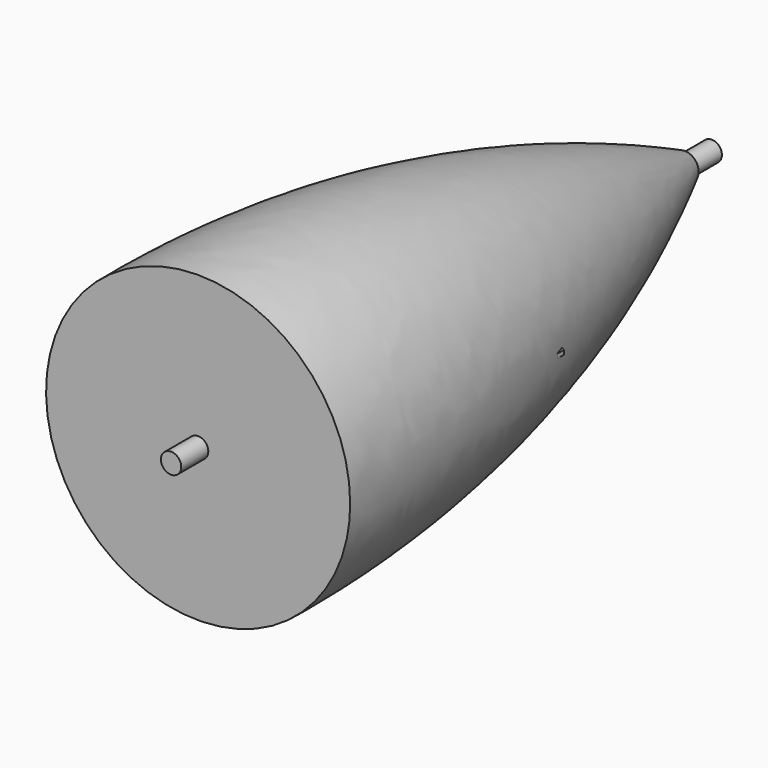
from build123d import *

# Parameters (mm, degrees)
SKETCH_R          = 4.120219
SKETCH001_R       = 35.8086
SKETCH002_R       = 45
SKETCH003_R       = 4.120219
SKETCH004_R       = 3.8086
SKETCH005_R       = 45
PAD_DEPTH         = 10
SKETCH006_R       = 3.009992
PAD002_DEPTH      = 100
FUSION_ROLL_ANGLE = 90
PAD003_DEPTH      = 12
SKETCH007_R       = 0.5
POCKET_DEPTH      = 12.001


with BuildPart() as obj1:
    # Sketch → Loft section 0
    with BuildSketch(Plane.XZ.offset(-90)):
        Circle(SKETCH_R)
    # Sketch001 → Loft section 1
    with BuildSketch(Plane.XZ):
        Circle(SKETCH001_R)
    # Sketch002 → Loft section 2
    with BuildSketch(Plane.XZ.offset(90)):
        Circle(SKETCH002_R)
    loft()


with BuildPart() as obj2:
    # Sketch003 → Loft001 section 0
    with BuildSketch(Plane.XZ.offset(-90)):
        Circle(SKETCH003_R)
    # Sketch004 → Loft001 section 1
    with BuildSketch(Plane.XZ):
        Circle(SKETCH004_R)
    # Sketch005 → Loft001 section 2
    with BuildSketch(Plane.XZ.offset(90)):
        Circle(SKETCH005_R)
    loft()


with BuildPart() as pad:
    # InvoluteGear → Pad (new body)
    with BuildSketch(Plane.XY):
        with BuildLine():
            Line((13.925855, -1.716263), (15.913635, -1.959941))
            add(Edge.make_bspline(
                [(15.913635, -1.959941), (15.994501, -1.964874), (16.238179, -1.969799), (16.647193, -1.893238)],
                knots=[0, 0, 0, 0, 1, 1, 1, 1], degree=3))
            add(Edge.make_bspline(
                [(16.647193, -1.893238), (17.136473, -1.800024), (17.842605, -1.590654), (18.717945, -1.127762)],
                knots=[0, 0, 0, 0, 1, 1, 1, 1], degree=3))
            ThreePointArc((18.717945, -1.127762), (18.751891, 0), (18.717945, 1.127762))
            add(Edge.make_bspline(
                [(18.717945, 1.127762), (17.842605, 1.590654), (17.136473, 1.800024), (16.647193, 1.893238)],
                knots=[0, 0, 0, 0, 1, 1, 1, 1], degree=3))
            add(Edge.make_bspline(
                [(16.647193, 1.893238), (16.238179, 1.969799), (15.994501, 1.964874), (15.913635, 1.959941)],
                knots=[0, 0, 0, 0, 1, 1, 1, 1], degree=3))
            Line((15.913635, 1.959941), (13.925855, 1.716263))
            ThreePointArc((13.925855, 1.716263), (13.260086, 1.888302), (12.890802, 2.468367))
            ThreePointArc((12.890802, 2.468367), (12.743611, 3.141018), (12.561346, 3.805024))
            ThreePointArc((12.561346, 3.805024), (12.618761, 4.490261), (13.128319, 4.951993))
            Line((13.128319, 4.951993), (15.001654, 5.659993))
            add(Edge.make_bspline(
                [(15.001654, 5.659993), (15.075549, 5.693206), (15.293605, 5.802087), (15.620188, 6.059958)],
                knots=[0, 0, 0, 0, 1, 1, 1, 1], degree=3))
            add(Edge.make_bspline(
                [(15.620188, 6.059958), (16.010106, 6.369874), (16.538056, 6.883418), (17.098014, 7.700079)],
                knots=[0, 0, 0, 0, 1, 1, 1, 1], degree=3))
            ThreePointArc((17.098014, 7.700079), (16.603975, 8.714438), (16.04982, 9.697246))
            add(Edge.make_bspline(
                [(16.04982, 9.697246), (15.059628, 9.700326), (14.33708, 9.557558), (13.860526, 9.412715)],
                knots=[0, 0, 0, 0, 1, 1, 1, 1], degree=3))
            add(Edge.make_bspline(
                [(13.860526, 9.412715), (13.462782, 9.290429), (13.249304, 9.172824), (13.179994, 9.130877)],
                knots=[0, 0, 0, 0, 1, 1, 1, 1], degree=3))
            Line((13.179994, 9.130877), (11.533145, 7.991343))
            ThreePointArc((11.533145, 7.991343), (10.863686, 7.834278), (10.267131, 8.176285))
            ThreePointArc((10.267131, 8.176285), (9.824204, 8.703485), (9.354237, 9.20673))
            ThreePointArc((9.354237, 9.20673), (9.08663, 9.840159), (9.323244, 10.485806))
            Line((9.323244, 10.485806), (10.652975, 11.983291))
            add(Edge.make_bspline(
                [(10.652975, 11.983291), (10.702971, 12.04704), (10.84545, 12.244786), (11.014787, 12.624889)],
                knots=[0, 0, 0, 0, 1, 1, 1, 1], degree=3))
            add(Edge.make_bspline(
                [(11.014787, 12.624889), (11.216017, 13.08051), (11.444838, 13.780581), (11.561134, 14.763925)],
                knots=[0, 0, 0, 0, 1, 1, 1, 1], degree=3))
            ThreePointArc((11.561134, 14.763925), (10.652288, 15.432504), (9.704875, 16.045208))
            add(Edge.make_bspline(
                [(9.704875, 16.045208), (8.826672, 15.587771), (8.253235, 15.125571), (7.898579, 14.775852)],
                knots=[0, 0, 0, 0, 1, 1, 1, 1], degree=3))
            add(Edge.make_bspline(
                [(7.898579, 14.775852), (7.603224, 14.482733), (7.468852, 14.279391), (7.426975, 14.210038)],
                knots=[0, 0, 0, 0, 1, 1, 1, 1], degree=3))
            Line((7.426975, 14.210038), (6.498331, 12.435702))
            ThreePointArc((6.498331, 12.435702), (5.978545, 11.985515), (5.291384, 12.011115))
            ThreePointArc((5.291384, 12.011115), (4.654189, 12.272088), (4.004184, 12.499285))
            ThreePointArc((4.004184, 12.499285), (3.472861, 12.935796), (3.382325, 13.617447))
            Line((3.382325, 13.617447), (3.863828, 15.561362))
            add(Edge.make_bspline(
                [(3.863828, 15.561362), (3.878472, 15.641043), (3.912734, 15.882352), (3.886031, 16.297611)],
                knots=[0, 0, 0, 0, 1, 1, 1, 1], degree=3))
            add(Edge.make_bspline(
                [(3.886031, 16.297611), (3.852474, 16.79456), (3.729745, 17.52078), (3.375738, 18.445533)],
                knots=[0, 0, 0, 0, 1, 1, 1, 1], degree=3))
            ThreePointArc((3.375738, 18.445533), (2.260291, 18.615169), (1.13666, 18.717406))
            add(Edge.make_bspline(
                [(1.13666, 18.717406), (0.571632, 17.904244), (0.278674, 17.228498), (0.127164, 16.75402)],
                knots=[0, 0, 0, 0, 1, 1, 1, 1], degree=3))
            add(Edge.make_bspline(
                [(0.127164, 16.75402), (0.001859, 16.357218), (-0.022624, 16.114722), (-0.027475, 16.033851)],
                knots=[0, 0, 0, 0, 1, 1, 1, 1], degree=3))
            Line((-0.027475, 16.033851), (-0.025173, 14.031193))
            ThreePointArc((-0.025173, 14.031193), (-0.276208, 13.391015), (-0.896555, 13.094343))
            ThreePointArc((-0.896555, 13.094343), (-1.582044, 13.029304), (-2.263178, 12.928405))
            ThreePointArc((-2.263178, 12.928405), (-2.936498, 13.067997), (-3.333443, 13.629496))
            Line((-3.333443, 13.629496), (-3.810476, 15.574512))
            add(Edge.make_bspline(
                [(-3.810476, 15.574512), (-3.834539, 15.651872), (-3.916343, 15.881462), (-4.132968, 16.236747)],
                knots=[0, 0, 0, 0, 1, 1, 1, 1], degree=3))
            add(Edge.make_bspline(
                [(-4.132968, 16.236747), (-4.393625, 16.661178), (-4.839787, 17.247179), (-5.582999, 17.901492)],
                knots=[0, 0, 0, 0, 1, 1, 1, 1], degree=3))
            ThreePointArc((-5.582999, 17.901492), (-6.649512, 17.533323), (-7.69195, 17.101672))
            add(Edge.make_bspline(
                [(-7.69195, 17.101672), (-7.814362, 16.119072), (-7.759729, 15.384583), (-7.673384, 14.894044)],
                knots=[0, 0, 0, 0, 1, 1, 1, 1], degree=3))
            add(Edge.make_bspline(
                [(-7.673384, 14.894044), (-7.599932, 14.484461), (-7.508917, 14.258364), (-7.47563, 14.184502)],
                knots=[0, 0, 0, 0, 1, 1, 1, 1], degree=3))
            Line((-7.47563, 14.184502), (-6.54291, 12.412306))
            ThreePointArc((-6.54291, 12.412306), (-6.467685, 11.728795), (-6.879105, 11.177815))
            ThreePointArc((-6.879105, 11.177815), (-7.45585, 10.801663), (-8.012074, 10.395783))
            ThreePointArc((-8.012074, 10.395783), (-8.673141, 10.206478), (-9.28556, 10.519191))
            Line((-9.28556, 10.519191), (-10.611845, 12.019729))
            add(Edge.make_bspline(
                [(-10.611845, 12.019729), (-10.669103, 12.077045), (-10.848233, 12.242321), (-11.205154, 12.456239)],
                knots=[0, 0, 0, 0, 1, 1, 1, 1], degree=3))
            add(Edge.make_bspline(
                [(-11.205154, 12.456239), (-11.633197, 12.710921), (-12.300583, 13.022457), (-13.262738, 13.256435)],
                knots=[0, 0, 0, 0, 1, 1, 1, 1], degree=3))
            ThreePointArc((-13.262738, 13.256435), (-14.035992, 12.434804), (-14.758427, 11.568151))
            add(Edge.make_bspline(
                [(-14.758427, 11.568151), (-14.41018, 10.641214), (-14.020471, 10.016246), (-13.716051, 9.622022)],
                knots=[0, 0, 0, 0, 1, 1, 1, 1], degree=3))
            add(Edge.make_bspline(
                [(-13.716051, 9.622022), (-13.46067, 9.293489), (-13.275008, 9.135587), (-13.211208, 9.085655)],
                knots=[0, 0, 0, 0, 1, 1, 1, 1], degree=3))
            Line((-13.211208, 9.085655), (-11.561745, 7.949909))
            ThreePointArc((-11.561745, 7.949909), (-11.177493, 7.379649), (-11.285734, 6.700584))
            ThreePointArc((-11.285734, 6.700584), (-11.62161, 6.099492), (-11.9255, 5.481612))
            ThreePointArc((-11.9255, 5.481612), (-12.422872, 5.006778), (-13.110467, 4.999066))
            Line((-13.110467, 4.999066), (-14.982169, 5.711371))
            add(Edge.make_bspline(
                [(-14.982169, 5.711371), (-15.059504, 5.735513), (-15.294923, 5.798611), (-15.710374, 5.822157)],
                knots=[0, 0, 0, 0, 1, 1, 1, 1], degree=3))
            add(Edge.make_bspline(
                [(-15.710374, 5.822157), (-16.207744, 5.848745), (-16.943463, 5.814448), (-17.904144, 5.574489)],
                knots=[0, 0, 0, 0, 1, 1, 1, 1], degree=3))
            ThreePointArc((-17.904144, 5.574489), (-18.206995, 4.487621), (-18.443926, 3.384506))
            add(Edge.make_bspline(
                [(-18.443926, 3.384506), (-17.7048, 2.725582), (-17.069292, 2.353308), (-16.616537, 2.14571)],
                knots=[0, 0, 0, 0, 1, 1, 1, 1], degree=3))
            add(Edge.make_bspline(
                [(-16.616537, 2.14571), (-16.237731, 1.97349), (-15.999955, 1.919956), (-15.920258, 1.905393)],
                knots=[0, 0, 0, 0, 1, 1, 1, 1], degree=3))
            Line((-15.920258, 1.905393), (-13.931924, 1.666284))
            ThreePointArc((-13.931924, 1.666284), (-13.326673, 1.339915), (-13.106938, 0.68833))
            ThreePointArc((-13.106938, 0.68833), (-13.125, 0), (-13.106938, -0.68833))
            ThreePointArc((-13.106938, -0.68833), (-13.326673, -1.339915), (-13.931924, -1.666284))
            Line((-13.931924, -1.666284), (-15.920258, -1.905393))
            add(Edge.make_bspline(
                [(-15.920258, -1.905393), (-15.999955, -1.919956), (-16.237731, -1.97349), (-16.616537, -2.14571)],
                knots=[0, 0, 0, 0, 1, 1, 1, 1], degree=3))
            add(Edge.make_bspline(
                [(-16.616537, -2.14571), (-17.069292, -2.353308), (-17.7048, -2.725582), (-18.443926, -3.384506)],
                knots=[0, 0, 0, 0, 1, 1, 1, 1], degree=3))
            ThreePointArc((-18.443926, -3.384506), (-18.206995, -4.487621), (-17.904144, -5.574489))
            add(Edge.make_bspline(
                [(-17.904144, -5.574489), (-16.943463, -5.814448), (-16.207744, -5.848745), (-15.710374, -5.822157)],
                knots=[0, 0, 0, 0, 1, 1, 1, 1], degree=3))
            add(Edge.make_bspline(
                [(-15.710374, -5.822157), (-15.294923, -5.798611), (-15.059504, -5.735513), (-14.982169, -5.711371)],
                knots=[0, 0, 0, 0, 1, 1, 1, 1], degree=3))
            Line((-14.982169, -5.711371), (-13.110467, -4.999066))
            ThreePointArc((-13.110467, -4.999066), (-12.422872, -5.006778), (-11.9255, -5.481612))
            ThreePointArc((-11.9255, -5.481612), (-11.62161, -6.099492), (-11.285734, -6.700584))
            ThreePointArc((-11.285734, -6.700584), (-11.177493, -7.379649), (-11.561745, -7.949909))
            Line((-11.561745, -7.949909), (-13.211208, -9.085655))
            add(Edge.make_bspline(
                [(-13.211208, -9.085655), (-13.275008, -9.135587), (-13.46067, -9.293489), (-13.716051, -9.622022)],
                knots=[0, 0, 0, 0, 1, 1, 1, 1], degree=3))
            add(Edge.make_bspline(
                [(-13.716051, -9.622022), (-14.020471, -10.016246), (-14.41018, -10.641214), (-14.758427, -11.568151)],
                knots=[0, 0, 0, 0, 1, 1, 1, 1], degree=3))
            ThreePointArc((-14.758427, -11.568151), (-14.035992, -12.434804), (-13.262738, -13.256435))
            add(Edge.make_bspline(
                [(-13.262738, -13.256435), (-12.300583, -13.022457), (-11.633197, -12.710921), (-11.205154, -12.456239)],
                knots=[0, 0, 0, 0, 1, 1, 1, 1], degree=3))
            add(Edge.make_bspline(
                [(-11.205154, -12.456239), (-10.848233, -12.242321), (-10.669103, -12.077045), (-10.611845, -12.019729)],
                knots=[0, 0, 0, 0, 1, 1, 1, 1], degree=3))
            Line((-10.611845, -12.019729), (-9.28556, -10.519191))
            ThreePointArc((-9.28556, -10.519191), (-8.673141, -10.206478), (-8.012074, -10.395783))
            ThreePointArc((-8.012074, -10.395783), (-7.45585, -10.801663), (-6.879105, -11.177815))
            ThreePointArc((-6.879105, -11.177815), (-6.467685, -11.728795), (-6.54291, -12.412306))
            Line((-6.54291, -12.412306), (-7.47563, -14.184502))
            add(Edge.make_bspline(
                [(-7.47563, -14.184502), (-7.508917, -14.258364), (-7.599932, -14.484461), (-7.673384, -14.894044)],
                knots=[0, 0, 0, 0, 1, 1, 1, 1], degree=3))
            add(Edge.make_bspline(
                [(-7.673384, -14.894044), (-7.759729, -15.384583), (-7.814362, -16.119072), (-7.69195, -17.101672)],
                knots=[0, 0, 0, 0, 1, 1, 1, 1], degree=3))
            ThreePointArc((-7.69195, -17.101672), (-6.649512, -17.533323), (-5.582999, -17.901492))
            add(Edge.make_bspline(
                [(-5.582999, -17.901492), (-4.839787, -17.247179), (-4.393625, -16.661178), (-4.132968, -16.236747)],
                knots=[0, 0, 0, 0, 1, 1, 1, 1], degree=3))
            add(Edge.make_bspline(
                [(-4.132968, -16.236747), (-3.916343, -15.881462), (-3.834539, -15.651872), (-3.810476, -15.574512)],
                knots=[0, 0, 0, 0, 1, 1, 1, 1], degree=3))
            Line((-3.810476, -15.574512), (-3.333443, -13.629496))
            ThreePointArc((-3.333443, -13.629496), (-2.936498, -13.067997), (-2.263178, -12.928405))
            ThreePointArc((-2.263178, -12.928405), (-1.582044, -13.029304), (-0.896555, -13.094343))
            ThreePointArc((-0.896555, -13.094343), (-0.276208, -13.391015), (-0.025173, -14.031193))
            Line((-0.025173, -14.031193), (-0.027475, -16.033851))
            add(Edge.make_bspline(
                [(-0.027475, -16.033851), (-0.022624, -16.114722), (0.001859, -16.357218), (0.127164, -16.75402)],
                knots=[0, 0, 0, 0, 1, 1, 1, 1], degree=3))
            add(Edge.make_bspline(
                [(0.127164, -16.75402), (0.278674, -17.228498), (0.571632, -17.904244), (1.13666, -18.717406)],
                knots=[0, 0, 0, 0, 1, 1, 1, 1], degree=3))
            ThreePointArc((1.13666, -18.717406), (2.260291, -18.615169), (3.375738, -18.445533))
            add(Edge.make_bspline(
                [(3.375738, -18.445533), (3.729745, -17.52078), (3.852474, -16.79456), (3.886031, -16.297611)],
                knots=[0, 0, 0, 0, 1, 1, 1, 1], degree=3))
            add(Edge.make_bspline(
                [(3.886031, -16.297611), (3.912734, -15.882352), (3.878472, -15.641043), (3.863828, -15.561362)],
                knots=[0, 0, 0, 0, 1, 1, 1, 1], degree=3))
            Line((3.863828, -15.561362), (3.382325, -13.617447))
            ThreePointArc((3.382325, -13.617447), (3.472861, -12.935796), (4.004184, -12.499285))
            ThreePointArc((4.004184, -12.499285), (4.654189, -12.272088), (5.291384, -12.011115))
            ThreePointArc((5.291384, -12.011115), (5.978545, -11.985515), (6.498331, -12.435702))
            Line((6.498331, -12.435702), (7.426975, -14.210038))
            add(Edge.make_bspline(
                [(7.426975, -14.210038), (7.468852, -14.279391), (7.603224, -14.482733), (7.898579, -14.775852)],
                knots=[0, 0, 0, 0, 1, 1, 1, 1], degree=3))
            add(Edge.make_bspline(
                [(7.898579, -14.775852), (8.253235, -15.125571), (8.826672, -15.587771), (9.704875, -16.045208)],
                knots=[0, 0, 0, 0, 1, 1, 1, 1], degree=3))
            ThreePointArc((9.704875, -16.045208), (10.652288, -15.432504), (11.561134, -14.763925))
            add(Edge.make_bspline(
                [(11.561134, -14.763925), (11.444838, -13.780581), (11.216017, -13.08051), (11.014787, -12.624889)],
                knots=[0, 0, 0, 0, 1, 1, 1, 1], degree=3))
            add(Edge.make_bspline(
                [(11.014787, -12.624889), (10.84545, -12.244786), (10.702971, -12.04704), (10.652975, -11.983291)],
                knots=[0, 0, 0, 0, 1, 1, 1, 1], degree=3))
            Line((10.652975, -11.983291), (9.323244, -10.485806))
            ThreePointArc((9.323244, -10.485806), (9.08663, -9.840159), (9.354237, -9.20673))
            ThreePointArc((9.354237, -9.20673), (9.824204, -8.703485), (10.267131, -8.176285))
            ThreePointArc((10.267131, -8.176285), (10.863686, -7.834278), (11.533145, -7.991343))
            Line((11.533145, -7.991343), (13.179994, -9.130877))
            add(Edge.make_bspline(
                [(13.179994, -9.130877), (13.249304, -9.172824), (13.462782, -9.290429), (13.860526, -9.412715)],
                knots=[0, 0, 0, 0, 1, 1, 1, 1], degree=3))
            add(Edge.make_bspline(
                [(13.860526, -9.412715), (14.33708, -9.557558), (15.059628, -9.700326), (16.04982, -9.697246)],
                knots=[0, 0, 0, 0, 1, 1, 1, 1], degree=3))
            ThreePointArc((16.04982, -9.697246), (16.603975, -8.714438), (17.098014, -7.700079))
            add(Edge.make_bspline(
                [(17.098014, -7.700079), (16.538056, -6.883418), (16.010106, -6.369874), (15.620188, -6.059958)],
                knots=[0, 0, 0, 0, 1, 1, 1, 1], degree=3))
            add(Edge.make_bspline(
                [(15.620188, -6.059958), (15.293605, -5.802087), (15.075549, -5.693206), (15.001654, -5.659993)],
                knots=[0, 0, 0, 0, 1, 1, 1, 1], degree=3))
            Line((15.001654, -5.659993), (13.128319, -4.951993))
            ThreePointArc((13.128319, -4.951993), (12.618761, -4.490261), (12.561346, -3.805024))
            ThreePointArc((12.561346, -3.805024), (12.743611, -3.141018), (12.890802, -2.468367))
            ThreePointArc((12.890802, -2.468367), (13.260086, -1.888302), (13.925855, -1.716263))
        make_face()
    extrude(amount=PAD_DEPTH)


with BuildPart() as ingranaggio:
    # Sketch006 → Pad002 (new body, symmetric)
    with BuildSketch(Plane(origin=(0, 0, 0), x_dir=(1, 0, 0), z_dir=(0, 0, -1))):
        Circle(SKETCH006_R)
    extrude(amount=PAD002_DEPTH, both=True)

    # Fusion: union Pad
    add(pad.part)


with BuildPart() as ingranaggio_1:
    # Fusion roll: moved
    add(ingranaggio.part.rotate(Axis((0, 0, 0), (1, 0, 0)), FUSION_ROLL_ANGLE))


with BuildPart() as ingranaggio_2:
    # Fusion placement: moved
    add(ingranaggio_1.part)


with BuildPart() as pocket:
    # InvoluteGear001 → Pad003 (new body)
    with BuildSketch(Plane(origin=(25, 0, 0), x_dir=(1, 0, 0), z_dir=(0, -1, 0))):
        with BuildLine():
            Line((6.310098, -1.539532), (8.025933, -1.955522))
            add(Edge.make_bspline(
                [(8.025933, -1.955522), (8.122308, -1.969458), (8.410577, -1.993094), (8.905383, -1.878739)],
                knots=[0, 0, 0, 0, 1, 1, 1, 1], degree=3))
            add(Edge.make_bspline(
                [(8.905383, -1.878739), (9.488858, -1.736981), (10.305552, -1.402438), (11.237092, -0.634636)],
                knots=[0, 0, 0, 0, 1, 1, 1, 1], degree=3))
            ThreePointArc((11.237092, -0.634636), (11.255007, 0), (11.237092, 0.634636))
            add(Edge.make_bspline(
                [(11.237092, 0.634636), (10.305552, 1.402438), (9.488858, 1.736981), (8.905383, 1.878739)],
                knots=[0, 0, 0, 0, 1, 1, 1, 1], degree=3))
            add(Edge.make_bspline(
                [(8.905383, 1.878739), (8.410577, 1.993094), (8.122308, 1.969458), (8.025933, 1.955522)],
                knots=[0, 0, 0, 0, 1, 1, 1, 1], degree=3))
            Line((8.025933, 1.955522), (6.310098, 1.539532))
            ThreePointArc((6.310098, 1.539532), (5.663228, 1.614479), (5.221229, 2.092699))
            ThreePointArc((5.221229, 2.092699), (5.06795, 2.440596), (4.891521, 2.777345))
            ThreePointArc((4.891521, 2.777345), (4.793216, 3.421079), (5.137936, 3.973551))
            Line((5.137936, 3.973551), (6.532976, 5.055679))
            add(Edge.make_bspline(
                [(6.532976, 5.055679), (6.60396, 5.122339), (6.802173, 5.33298), (7.021273, 5.791135)],
                knots=[0, 0, 0, 0, 1, 1, 1, 1], degree=3))
            add(Edge.make_bspline(
                [(7.021273, 5.791135), (7.274232, 6.335698), (7.521877, 7.182799), (7.502391, 8.389823)],
                knots=[0, 0, 0, 0, 1, 1, 1, 1], degree=3))
            ThreePointArc((7.502391, 8.389823), (7.017382, 8.799519), (6.510034, 9.181202))
            add(Edge.make_bspline(
                [(6.510034, 9.181202), (5.328936, 8.931611), (4.55818, 8.501678), (4.083559, 8.133883)],
                knots=[0, 0, 0, 0, 1, 1, 1, 1], degree=3))
            add(Edge.make_bspline(
                [(4.083559, 8.133883), (3.685645, 7.818327), (3.524392, 7.578213), (3.475198, 7.494175)],
                knots=[0, 0, 0, 0, 1, 1, 1, 1], degree=3))
            Line((3.475198, 7.494175), (2.730628, 5.893316))
            ThreePointArc((2.730628, 5.893316), (2.268715, 5.434301), (1.619245, 5.386898))
            ThreePointArc((1.619245, 5.386898), (1.25168, 5.48397), (0.878398, 5.555991))
            ThreePointArc((0.878398, 5.555991), (0.313814, 5.880495), (0.096803, 6.494469))
            Line((0.096803, 6.494469), (0.120555, 8.259851))
            add(Edge.make_bspline(
                [(0.120555, 8.259851), (0.112696, 8.356911), (0.071594, 8.643211), (-0.149999, 9.100165)],
                knots=[0, 0, 0, 0, 1, 1, 1, 1], degree=3))
            add(Edge.make_bspline(
                [(-0.149999, 9.100165), (-0.418038, 9.637467), (-0.925925, 10.359242), (-1.881764, 11.096575)],
                knots=[0, 0, 0, 0, 1, 1, 1, 1], degree=3))
            ThreePointArc((-1.881764, 11.096575), (-2.504475, 10.972821), (-3.119213, 10.814135))
            add(Edge.make_bspline(
                [(-3.119213, 10.814135), (-3.660477, 9.735098), (-3.804901, 8.864438), (-3.813269, 8.264048)],
                knots=[0, 0, 0, 0, 1, 1, 1, 1], degree=3))
            add(Edge.make_bspline(
                [(-3.813269, 8.264048), (-3.814652, 7.756201), (-3.727463, 7.480419), (-3.692431, 7.389561)],
                knots=[0, 0, 0, 0, 1, 1, 1, 1], degree=3))
            Line((-3.692431, 7.389561), (-2.905061, 5.809313))
            ThreePointArc((-2.905061, 5.809313), (-2.834187, 5.161984), (-3.202064, 4.624653))
            ThreePointArc((-3.202064, 4.624653), (-3.50713, 4.397802), (-3.796177, 4.150863))
            ThreePointArc((-3.796177, 4.150863), (-4.401896, 3.911778), (-5.017225, 4.124919))
            Line((-5.017225, 4.124919), (-6.382646, 5.244186))
            add(Edge.make_bspline(
                [(-6.382646, 5.244186), (-6.463431, 5.298558), (-6.712897, 5.444928), (-7.208319, 5.556586)],
                knots=[0, 0, 0, 0, 1, 1, 1, 1], degree=3))
            add(Edge.make_bspline(
                [(-7.208319, 5.556586), (-7.795518, 5.682027), (-8.676486, 5.734964), (-9.848912, 5.447379)],
                knots=[0, 0, 0, 0, 1, 1, 1, 1], degree=3))
            ThreePointArc((-9.848912, 5.447379), (-10.140411, 4.883365), (-10.399629, 4.303804))
            add(Edge.make_bspline(
                [(-10.399629, 4.303804), (-9.893476, 3.207858), (-9.302813, 2.552095), (-8.838627, 2.171216)],
                knots=[0, 0, 0, 0, 1, 1, 1, 1], degree=3))
            add(Edge.make_bspline(
                [(-8.838627, 2.171216), (-8.442439, 1.853497), (-8.172463, 1.749717), (-8.079585, 1.720457)],
                knots=[0, 0, 0, 0, 1, 1, 1, 1], degree=3))
            Line((-8.079585, 1.720457), (-6.35318, 1.350779))
            ThreePointArc((-6.35318, 1.350779), (-5.802889, 1.002587), (-5.612153, 0.379949))
            ThreePointArc((-5.612153, 0.379949), (-5.625, 0), (-5.612153, -0.379949))
            ThreePointArc((-5.612153, -0.379949), (-5.802889, -1.002587), (-6.35318, -1.350779))
            Line((-6.35318, -1.350779), (-8.079585, -1.720457))
            add(Edge.make_bspline(
                [(-8.079585, -1.720457), (-8.172463, -1.749717), (-8.442439, -1.853497), (-8.838627, -2.171216)],
                knots=[0, 0, 0, 0, 1, 1, 1, 1], degree=3))
            add(Edge.make_bspline(
                [(-8.838627, -2.171216), (-9.302813, -2.552095), (-9.893476, -3.207858), (-10.399629, -4.303804)],
                knots=[0, 0, 0, 0, 1, 1, 1, 1], degree=3))
            ThreePointArc((-10.399629, -4.303804), (-10.140411, -4.883365), (-9.848912, -5.447379))
            add(Edge.make_bspline(
                [(-9.848912, -5.447379), (-8.676486, -5.734964), (-7.795518, -5.682027), (-7.208319, -5.556586)],
                knots=[0, 0, 0, 0, 1, 1, 1, 1], degree=3))
            add(Edge.make_bspline(
                [(-7.208319, -5.556586), (-6.712897, -5.444928), (-6.463431, -5.298558), (-6.382646, -5.244186)],
                knots=[0, 0, 0, 0, 1, 1, 1, 1], degree=3))
            Line((-6.382646, -5.244186), (-5.017225, -4.124919))
            ThreePointArc((-5.017225, -4.124919), (-4.401896, -3.911778), (-3.796177, -4.150863))
            ThreePointArc((-3.796177, -4.150863), (-3.50713, -4.397802), (-3.202064, -4.624653))
            ThreePointArc((-3.202064, -4.624653), (-2.834187, -5.161984), (-2.905061, -5.809313))
            Line((-2.905061, -5.809313), (-3.692431, -7.389561))
            add(Edge.make_bspline(
                [(-3.692431, -7.389561), (-3.727463, -7.480419), (-3.814652, -7.756201), (-3.813269, -8.264048)],
                knots=[0, 0, 0, 0, 1, 1, 1, 1], degree=3))
            add(Edge.make_bspline(
                [(-3.813269, -8.264048), (-3.804901, -8.864438), (-3.660477, -9.735098), (-3.119213, -10.814135)],
                knots=[0, 0, 0, 0, 1, 1, 1, 1], degree=3))
            ThreePointArc((-3.119213, -10.814135), (-2.504475, -10.972821), (-1.881764, -11.096575))
            add(Edge.make_bspline(
                [(-1.881764, -11.096575), (-0.925925, -10.359242), (-0.418038, -9.637467), (-0.149999, -9.100165)],
                knots=[0, 0, 0, 0, 1, 1, 1, 1], degree=3))
            add(Edge.make_bspline(
                [(-0.149999, -9.100165), (0.071594, -8.643211), (0.112696, -8.356911), (0.120555, -8.259851)],
                knots=[0, 0, 0, 0, 1, 1, 1, 1], degree=3))
            Line((0.120555, -8.259851), (0.096803, -6.494469))
            ThreePointArc((0.096803, -6.494469), (0.313814, -5.880495), (0.878398, -5.555991))
            ThreePointArc((0.878398, -5.555991), (1.25168, -5.48397), (1.619245, -5.386898))
            ThreePointArc((1.619245, -5.386898), (2.268715, -5.434301), (2.730628, -5.893316))
            Line((2.730628, -5.893316), (3.475198, -7.494175))
            add(Edge.make_bspline(
                [(3.475198, -7.494175), (3.524392, -7.578213), (3.685645, -7.818327), (4.083559, -8.133883)],
                knots=[0, 0, 0, 0, 1, 1, 1, 1], degree=3))
            add(Edge.make_bspline(
                [(4.083559, -8.133883), (4.55818, -8.501678), (5.328936, -8.931611), (6.510034, -9.181202)],
                knots=[0, 0, 0, 0, 1, 1, 1, 1], degree=3))
            ThreePointArc((6.510034, -9.181202), (7.017382, -8.799519), (7.502391, -8.389823))
            add(Edge.make_bspline(
                [(7.502391, -8.389823), (7.521877, -7.182799), (7.274232, -6.335698), (7.021273, -5.791135)],
                knots=[0, 0, 0, 0, 1, 1, 1, 1], degree=3))
            add(Edge.make_bspline(
                [(7.021273, -5.791135), (6.802173, -5.33298), (6.60396, -5.122339), (6.532976, -5.055679)],
                knots=[0, 0, 0, 0, 1, 1, 1, 1], degree=3))
            Line((6.532976, -5.055679), (5.137936, -3.973551))
            ThreePointArc((5.137936, -3.973551), (4.793216, -3.421079), (4.891521, -2.777345))
            ThreePointArc((4.891521, -2.777345), (5.06795, -2.440596), (5.221229, -2.092699))
            ThreePointArc((5.221229, -2.092699), (5.663228, -1.614479), (6.310098, -1.539532))
        make_face()
    extrude(amount=PAD003_DEPTH)

    # Sketch007 → Pocket (cut, through all)
    with BuildSketch(Plane(origin=(25, -12, 0), x_dir=(1, 0, 0), z_dir=(0, -1, 0))):
        Circle(SKETCH007_R)
    extrude(amount=-POCKET_DEPTH, mode=Mode.SUBTRACT)


solid = Compound([obj1.part, obj2.part, ingranaggio_2.part, pocket.part])
